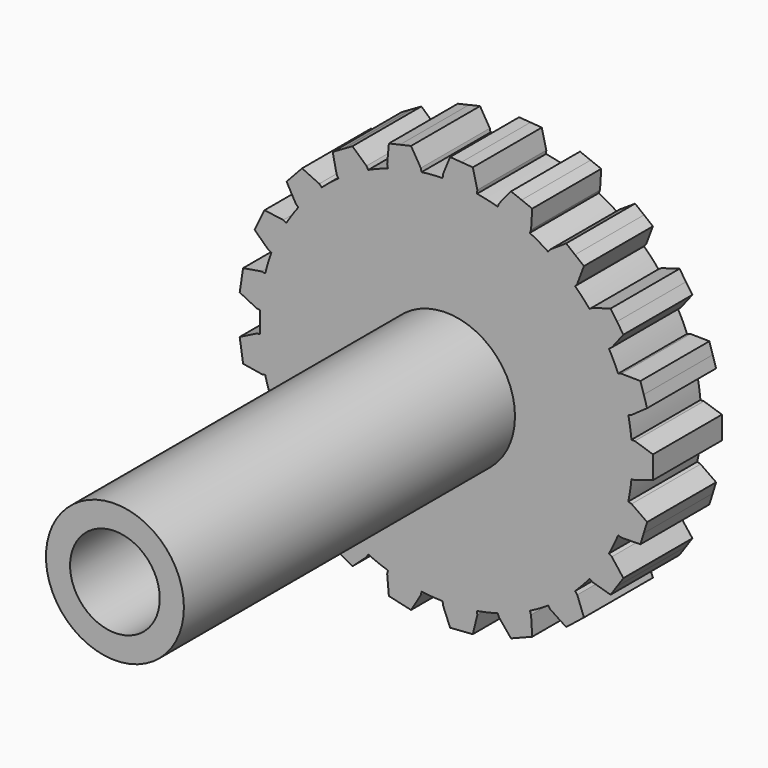
from build123d import *

# Parameters (mm, degrees)
F1_DEPTH = 2.5
F2_R     = 2
F3_DEPTH = 12
F4_R     = 1.3
F5_DEPTH = 25.2476


with BuildPart() as f1:
    # F0 (on Front) → F1 (new body)
    with BuildSketch(Plane.XZ):
        with BuildLine():
            ThreePointArc((5.376802, -0.5), (5.394197, -0.250269), (5.4, 0))
            ThreePointArc((5.4, 0), (5.394197, 0.250269), (5.376802, 0.5))
            ThreePointArc((5.376802, 0.5), (5.339686, 0.804828), (5.285303, 1.107054))
            ThreePointArc((5.285303, 1.107054), (5.160093, 1.591678), (4.990548, 2.062627))
            ThreePointArc((4.990548, 2.062627), (4.865232, 2.342972), (4.724182, 2.615741))
            ThreePointArc((4.724182, 2.615741), (4.461689, 3.041928), (4.160862, 3.44198))
            ThreePointArc((4.160862, 3.44198), (3.95848, 3.672933), (3.743297, 3.892008))
            ThreePointArc((3.743297, 3.892008), (3.366845, 4.22189), (2.961465, 4.515498))
            ThreePointArc((2.961465, 4.515498), (2.7, 4.676537), (2.429803, 4.822453))
            ThreePointArc((2.429803, 4.822453), (1.972842, 5.026718), (1.498929, 5.187794))
            ThreePointArc((1.498929, 5.187794), (1.201613, 5.264611), (0.900411, 5.324402))
            ThreePointArc((0.900411, 5.324402), (0.403543, 5.384901), (-0.096793, 5.399132))
            ThreePointArc((-0.096793, 5.399132), (-0.403543, 5.384901), (-0.708987, 5.353255))
            ThreePointArc((-0.708987, 5.353255), (-1.201613, 5.264611), (-1.683915, 5.130734))
            ThreePointArc((-1.683915, 5.130734), (-1.972842, 5.026718), (-2.255388, 4.906447))
            ThreePointArc((-2.255388, 4.906447), (-2.7, 4.676537), (-3.121414, 4.406447))
            ThreePointArc((-3.121414, 4.406447), (-3.366845, 4.22189), (-3.601388, 4.02368))
            ThreePointArc((-3.601388, 4.02368), (-3.95848, 3.672933), (-4.281561, 3.290628))
            ThreePointArc((-4.281561, 3.290628), (-4.461689, 3.041928), (-4.627389, 2.783391))
            ThreePointArc((-4.627389, 2.783391), (-4.865232, 2.342972), (-5.061273, 1.882423))
            ThreePointArc((-5.061273, 1.882423), (-5.160093, 1.591678), (-5.242226, 1.295786))
            ThreePointArc((-5.242226, 1.295786), (-5.339686, 0.804828), (-5.391269, 0.306955))
            ThreePointArc((-5.391269, 0.306955), (-5.4, 0), (-5.391269, -0.306955))
            ThreePointArc((-5.391269, -0.306955), (-5.339686, -0.804828), (-5.242226, -1.295786))
            ThreePointArc((-5.242226, -1.295786), (-5.160093, -1.591678), (-5.061273, -1.882423))
            ThreePointArc((-5.061273, -1.882423), (-4.865232, -2.342972), (-4.627389, -2.783391))
            ThreePointArc((-4.627389, -2.783391), (-4.461689, -3.041928), (-4.281561, -3.290628))
            ThreePointArc((-4.281561, -3.290628), (-3.95848, -3.672933), (-3.601388, -4.02368))
            ThreePointArc((-3.601388, -4.02368), (-3.366845, -4.22189), (-3.121414, -4.406447))
            ThreePointArc((-3.121414, -4.406447), (-2.7, -4.676537), (-2.255388, -4.906447))
            ThreePointArc((-2.255388, -4.906447), (-1.972842, -5.026718), (-1.683915, -5.130734))
            ThreePointArc((-1.683915, -5.130734), (-1.201613, -5.264611), (-0.708987, -5.353255))
            ThreePointArc((-0.708987, -5.353255), (-0.403543, -5.384901), (-0.096793, -5.399132))
            ThreePointArc((-0.096793, -5.399132), (0.403543, -5.384901), (0.900411, -5.324402))
            ThreePointArc((0.900411, -5.324402), (1.201613, -5.264611), (1.498929, -5.187794))
            ThreePointArc((1.498929, -5.187794), (1.972842, -5.026718), (2.429803, -4.822453))
            ThreePointArc((2.429803, -4.822453), (2.7, -4.676537), (2.961465, -4.515498))
            ThreePointArc((2.961465, -4.515498), (3.366845, -4.22189), (3.743297, -3.892008))
            ThreePointArc((3.743297, -3.892008), (3.95848, -3.672933), (4.160862, -3.44198))
            ThreePointArc((4.160862, -3.44198), (4.461689, -3.041928), (4.724182, -2.615741))
            ThreePointArc((4.724182, -2.615741), (4.865232, -2.342972), (4.990548, -2.062627))
            ThreePointArc((4.990548, -2.062627), (5.160093, -1.591678), (5.285303, -1.107054))
            ThreePointArc((5.285303, -1.107054), (5.339686, -0.804828), (5.376802, -0.5))
        make_face()
        with BuildLine():
            ThreePointArc((5.376802, 0.5), (5.394197, 0.250269), (5.4, 0))
            ThreePointArc((5.4, 0), (5.394197, -0.250269), (5.376802, -0.5))
            Line((5.376802, -0.5), (5.476802, -0.5))
            Line((5.476802, -0.5), (6, -0.329923))
            Line((6, -0.329923), (6, 0))
            Line((6, 0), (6, 0.329923))
            Line((6, 0.329923), (5.476802, 0.5))
            Line((5.476802, 0.5), (5.376802, 0.5))
        make_face()
        with BuildLine():
            ThreePointArc((4.990548, 2.062627), (5.160093, 1.591678), (5.285303, 1.107054))
            Line((5.285303, 1.107054), (5.380861, 1.136529))
            Line((5.380861, 1.136529), (5.830683, 1.453265))
            Line((5.830683, 1.453265), (5.733437, 1.768531))
            Line((5.733437, 1.768531), (5.63619, 2.083797))
            Line((5.63619, 2.083797), (5.086105, 2.092102))
            Line((5.086105, 2.092102), (4.990548, 2.062627))
        make_face()
        with BuildLine():
            Line((5.380861, -1.136529), (5.285303, -1.107054))
            ThreePointArc((5.285303, -1.107054), (5.160093, -1.591678), (4.990548, -2.062627))
            Line((4.990548, -2.062627), (5.086105, -2.092102))
            Line((5.086105, -2.092102), (5.63619, -2.083797))
            Line((5.63619, -2.083797), (5.733437, -1.768531))
            Line((5.733437, -1.768531), (5.830683, -1.453265))
            Line((5.830683, -1.453265), (5.380861, -1.136529))
        make_face()
        with BuildLine():
            ThreePointArc((4.160862, 3.44198), (4.461689, 3.041928), (4.724182, 2.615741))
            Line((4.724182, 2.615741), (4.806806, 2.672073))
            Line((4.806806, 2.672073), (5.143285, 3.107325))
            Line((5.143285, 3.107325), (4.957433, 3.37992))
            Line((4.957433, 3.37992), (4.77158, 3.652516))
            Line((4.77158, 3.652516), (4.243486, 3.498312))
            Line((4.243486, 3.498312), (4.160862, 3.44198))
        make_face()
        with BuildLine():
            Line((4.806806, -2.672073), (4.724182, -2.615741))
            ThreePointArc((4.724182, -2.615741), (4.461689, -3.041928), (4.160862, -3.44198))
            Line((4.160862, -3.44198), (4.243486, -3.498312))
            Line((4.243486, -3.498312), (4.77158, -3.652516))
            Line((4.77158, -3.652516), (4.957433, -3.37992))
            Line((4.957433, -3.37992), (5.143285, -3.107325))
            Line((5.143285, -3.107325), (4.806806, -2.672073))
        make_face()
        with BuildLine():
            ThreePointArc((2.961465, 4.515498), (3.366845, 4.22189), (3.743297, 3.892008))
            Line((3.743297, 3.892008), (3.805646, 3.970191))
            Line((3.805646, 3.970191), (3.998883, 4.485285))
            Line((3.998883, 4.485285), (3.740939, 4.690989))
            Line((3.740939, 4.690989), (3.482994, 4.896693))
            Line((3.482994, 4.896693), (3.023814, 4.593681))
            Line((3.023814, 4.593681), (2.961465, 4.515498))
        make_face()
        with BuildLine():
            Line((3.805646, -3.970191), (3.743297, -3.892008))
            ThreePointArc((3.743297, -3.892008), (3.366845, -4.22189), (2.961465, -4.515498))
            Line((2.961465, -4.515498), (3.023814, -4.593681))
            Line((3.023814, -4.593681), (3.482994, -4.896693))
            Line((3.482994, -4.896693), (3.740939, -4.690989))
            Line((3.740939, -4.690989), (3.998883, -4.485285))
            Line((3.998883, -4.485285), (3.805646, -3.970191))
        make_face()
        with BuildLine():
            ThreePointArc((1.498929, 5.187794), (1.972842, 5.026718), (2.429803, 4.822453))
            Line((2.429803, 4.822453), (2.466337, 4.915541))
            Line((2.466337, 4.915541), (2.499163, 5.464708))
            Line((2.499163, 5.464708), (2.192046, 5.585242))
            Line((2.192046, 5.585242), (1.884929, 5.705777))
            Line((1.884929, 5.705777), (1.535464, 5.280882))
            Line((1.535464, 5.280882), (1.498929, 5.187794))
        make_face()
        with BuildLine():
            Line((2.466337, -4.915541), (2.429803, -4.822453))
            ThreePointArc((2.429803, -4.822453), (1.972842, -5.026718), (1.498929, -5.187794))
            Line((1.498929, -5.187794), (1.535464, -5.280882))
            Line((1.535464, -5.280882), (1.884929, -5.705777))
            Line((1.884929, -5.705777), (2.192046, -5.585242))
            Line((2.192046, -5.585242), (2.499163, -5.464708))
            Line((2.499163, -5.464708), (2.466337, -4.915541))
        make_face()
        with BuildLine():
            ThreePointArc((-0.096793, 5.399132), (0.403543, 5.384901), (0.900411, 5.324402))
            Line((0.900411, 5.324402), (0.907884, 5.424123))
            Line((0.907884, 5.424123), (0.777381, 5.958568))
            Line((0.777381, 5.958568), (0.448381, 5.983223))
            Line((0.448381, 5.983223), (0.11938, 6.007878))
            Line((0.11938, 6.007878), (-0.08932, 5.498853))
            Line((-0.08932, 5.498853), (-0.096793, 5.399132))
        make_face()
        with BuildLine():
            Line((0.907884, -5.424123), (0.900411, -5.324402))
            ThreePointArc((0.900411, -5.324402), (0.403543, -5.384901), (-0.096793, -5.399132))
            Line((-0.096793, -5.399132), (-0.08932, -5.498853))
            Line((-0.08932, -5.498853), (0.11938, -6.007878))
            Line((0.11938, -6.007878), (0.448381, -5.983223))
            Line((0.448381, -5.983223), (0.777381, -5.958568))
            Line((0.777381, -5.958568), (0.907884, -5.424123))
        make_face()
        with BuildLine():
            ThreePointArc((-1.683915, 5.130734), (-1.201613, 5.264611), (-0.708987, 5.353255))
            Line((-0.708987, 5.353255), (-0.731239, 5.450748))
            Line((-0.731239, 5.450748), (-1.013474, 5.922982))
            Line((-1.013474, 5.922982), (-1.335126, 5.849567))
            Line((-1.335126, 5.849567), (-1.656777, 5.776153))
            Line((-1.656777, 5.776153), (-1.706167, 5.228227))
            Line((-1.706167, 5.228227), (-1.683915, 5.130734))
        make_face()
        with BuildLine():
            Line((-0.731239, -5.450748), (-0.708987, -5.353255))
            ThreePointArc((-0.708987, -5.353255), (-1.201613, -5.264611), (-1.683915, -5.130734))
            Line((-1.683915, -5.130734), (-1.706167, -5.228227))
            Line((-1.706167, -5.228227), (-1.656777, -5.776153))
            Line((-1.656777, -5.776153), (-1.335126, -5.849567))
            Line((-1.335126, -5.849567), (-1.013474, -5.922982))
            Line((-1.013474, -5.922982), (-0.731239, -5.450748))
        make_face()
        with BuildLine():
            ThreePointArc((-3.121414, 4.406447), (-2.7, 4.676537), (-2.255388, 4.906447))
            Line((-2.255388, 4.906447), (-2.305388, 4.99305))
            Line((-2.305388, 4.99305), (-2.714278, 5.361114))
            Line((-2.714278, 5.361114), (-3, 5.196152))
            Line((-3, 5.196152), (-3.285722, 5.031191))
            Line((-3.285722, 5.031191), (-3.171414, 4.49305))
            Line((-3.171414, 4.49305), (-3.121414, 4.406447))
        make_face()
        with BuildLine():
            Line((-2.305388, -4.99305), (-2.255388, -4.906447))
            ThreePointArc((-2.255388, -4.906447), (-2.7, -4.676537), (-3.121414, -4.406447))
            Line((-3.121414, -4.406447), (-3.171414, -4.49305))
            Line((-3.171414, -4.49305), (-3.285722, -5.031191))
            Line((-3.285722, -5.031191), (-3, -5.196152))
            Line((-3, -5.196152), (-2.714278, -5.361114))
            Line((-2.714278, -5.361114), (-2.305388, -4.99305))
        make_face()
        with BuildLine():
            ThreePointArc((-4.281561, 3.290628), (-3.95848, 3.672933), (-3.601388, 4.02368))
            Line((-3.601388, 4.02368), (-3.674694, 4.091697))
            Line((-3.674694, 4.091697), (-4.173906, 4.322887))
            Line((-4.173906, 4.322887), (-4.398311, 4.081036))
            Line((-4.398311, 4.081036), (-4.622716, 3.839185))
            Line((-4.622716, 3.839185), (-4.354866, 3.358645))
            Line((-4.354866, 3.358645), (-4.281561, 3.290628))
        make_face()
        with BuildLine():
            Line((-3.674694, -4.091697), (-3.601388, -4.02368))
            ThreePointArc((-3.601388, -4.02368), (-3.95848, -3.672933), (-4.281561, -3.290628))
            Line((-4.281561, -3.290628), (-4.354866, -3.358645))
            Line((-4.354866, -3.358645), (-4.622716, -3.839185))
            Line((-4.622716, -3.839185), (-4.398311, -4.081036))
            Line((-4.398311, -4.081036), (-4.173906, -4.322887))
            Line((-4.173906, -4.322887), (-3.674694, -4.091697))
        make_face()
        with BuildLine():
            ThreePointArc((-5.061273, 1.882423), (-4.865232, 2.342972), (-4.627389, 2.783391))
            Line((-4.627389, 2.783391), (-4.717486, 2.82678))
            Line((-4.717486, 2.82678), (-5.262665, 2.900553))
            Line((-5.262665, 2.900553), (-5.405813, 2.603302))
            Line((-5.405813, 2.603302), (-5.548962, 2.306052))
            Line((-5.548962, 2.306052), (-5.15137, 1.925811))
            Line((-5.15137, 1.925811), (-5.061273, 1.882423))
        make_face()
        with BuildLine():
            Line((-4.717486, -2.82678), (-4.627389, -2.783391))
            ThreePointArc((-4.627389, -2.783391), (-4.865232, -2.342972), (-5.061273, -1.882423))
            Line((-5.061273, -1.882423), (-5.15137, -1.925811))
            Line((-5.15137, -1.925811), (-5.548962, -2.306052))
            Line((-5.548962, -2.306052), (-5.405813, -2.603302))
            Line((-5.405813, -2.603302), (-5.262665, -2.900553))
            Line((-5.262665, -2.900553), (-4.717486, -2.82678))
        make_face()
        with BuildLine():
            ThreePointArc((-5.391269, 0.306955), (-5.339686, 0.804828), (-5.242226, 1.295786))
            Line((-5.242226, 1.295786), (-5.34111, 1.31069))
            Line((-5.34111, 1.31069), (-5.883812, 1.220492))
            Line((-5.883812, 1.220492), (-5.932985, 0.894254))
            Line((-5.932985, 0.894254), (-5.982157, 0.568015))
            Line((-5.982157, 0.568015), (-5.490152, 0.32186))
            Line((-5.490152, 0.32186), (-5.391269, 0.306955))
        make_face()
        with BuildLine():
            Line((-5.34111, -1.31069), (-5.242226, -1.295786))
            ThreePointArc((-5.242226, -1.295786), (-5.339686, -0.804828), (-5.391269, -0.306955))
            Line((-5.391269, -0.306955), (-5.490152, -0.32186))
            Line((-5.490152, -0.32186), (-5.982157, -0.568015))
            Line((-5.982157, -0.568015), (-5.932985, -0.894254))
            Line((-5.932985, -0.894254), (-5.883812, -1.220492))
            Line((-5.883812, -1.220492), (-5.34111, -1.31069))
        make_face()
    extrude(amount=F1_DEPTH)

    # F2 (on face) → F3 (join)
    with BuildSketch(Plane.XZ.offset(2.5)):
        Circle(F2_R)
    extrude(amount=F3_DEPTH)

    # F4 (on face) → F5 (cut)
    with BuildSketch(Plane.XZ.offset(14.5)):
        Circle(F4_R)
    extrude(amount=-F5_DEPTH, mode=Mode.SUBTRACT)


solid = f1.part
